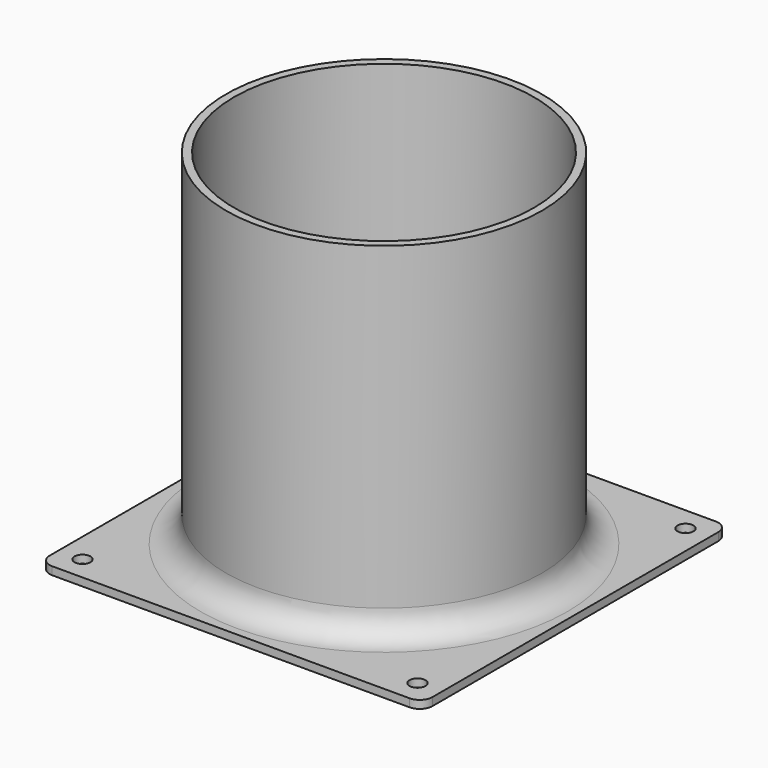
from build123d import *

# Parameters (mm, degrees)
SKETCH_R      = 49.5
SKETCH_R_2    = 47
PAD_DEPTH     = 100
SKETCH002_W   = 120
SKETCH002_H   = 120
SKETCH002_R   = 57.5
SKETCH002_R_2 = 2.5
PAD001_DEPTH  = 2.5
FILLET_R      = 4


with BuildPart() as part:
    # Sketch → Pad (new body)
    with BuildSketch(Plane.XY):
        Circle(SKETCH_R)
        Circle(SKETCH_R_2, mode=Mode.SUBTRACT)
    extrude(amount=PAD_DEPTH)

    # Sketch001 → Revolution (revolve)
    with BuildSketch(Plane.XZ):
        with BuildLine():
            ThreePointArc((-57.5, -10.5), (-50.075379, -7.424621), (-47, 0))
            Line((-49.5, 0), (-47, 0))
            ThreePointArc((-57.5, -8), (-51.843146, -5.656854), (-49.5, 0))
            Line((-57.5, -10.5), (-57.5, -8))
        make_face()
    revolve(axis=Axis((0, 0, 0), (0, 0, 1)))

    # Sketch002 (on DatumPlane) → Pad001 (join)
    with BuildSketch(Plane(origin=(0, 0, -10.5), x_dir=(0, -1, 0), z_dir=(0, 0, 1))):
        Rectangle(SKETCH002_W, SKETCH002_H)
        Circle(SKETCH002_R, mode=Mode.SUBTRACT)
        with Locations((-52.499987, 52.500013)):
            Circle(SKETCH002_R_2, mode=Mode.SUBTRACT)
        with Locations((-52.500013, -52.499987)):
            Circle(SKETCH002_R_2, mode=Mode.SUBTRACT)
        with Locations((52.499987, -52.500013)):
            Circle(SKETCH002_R_2, mode=Mode.SUBTRACT)
        with Locations((52.500013, 52.499987)):
            Circle(SKETCH002_R_2, mode=Mode.SUBTRACT)
    extrude(amount=PAD001_DEPTH)

    # Fillet
    fillet_edges = [part.edges().sort_by_distance(p)[0] for p in [
        (-60, -60, -9.25),
        (60, -60, -9.25),
        (-60, 60, -9.25),
        (60, 60, -9.25),
    ]]
    fillet(fillet_edges, radius=FILLET_R)


solid = part.part
